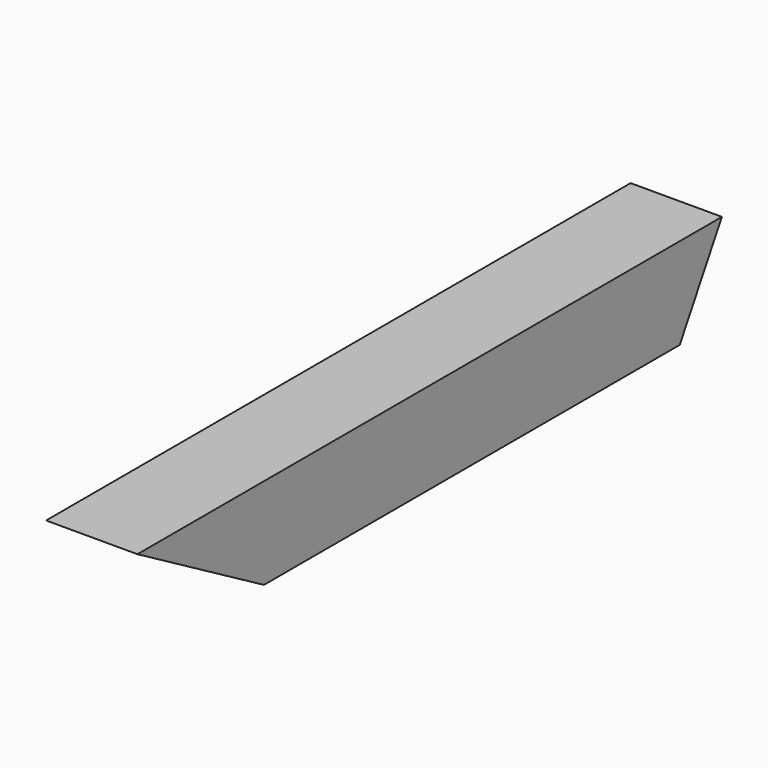
from build123d import *

# Parameters (mm, degrees)
F0_W     = 25.4
F0_H     = 25.4
F0_W_2   = 19.05
F0_H_2   = 19.05
F1_DEPTH = 203.2
F3_DEPTH = 25.401


with BuildPart() as f1:
    # F0 (on Front) → F1 (new body)
    with BuildSketch(Plane.XZ):
        Rectangle(F0_W, F0_H)
        Rectangle(F0_W_2, F0_H_2, mode=Mode.SUBTRACT)
    extrude(amount=F1_DEPTH)

    # F2 (on face) → F3 (cut, through all)
    with BuildSketch(Plane.YZ.offset(12.7)):
        Polygon((-159.205909, -12.7), (-203.2, 12.7), (-203.2, -12.7), align=None)
        Polygon((0, -12.7), (0, 12.7), (-14.664697, -12.7), align=None)
    extrude(amount=-F3_DEPTH, mode=Mode.SUBTRACT)


solid = f1.part
